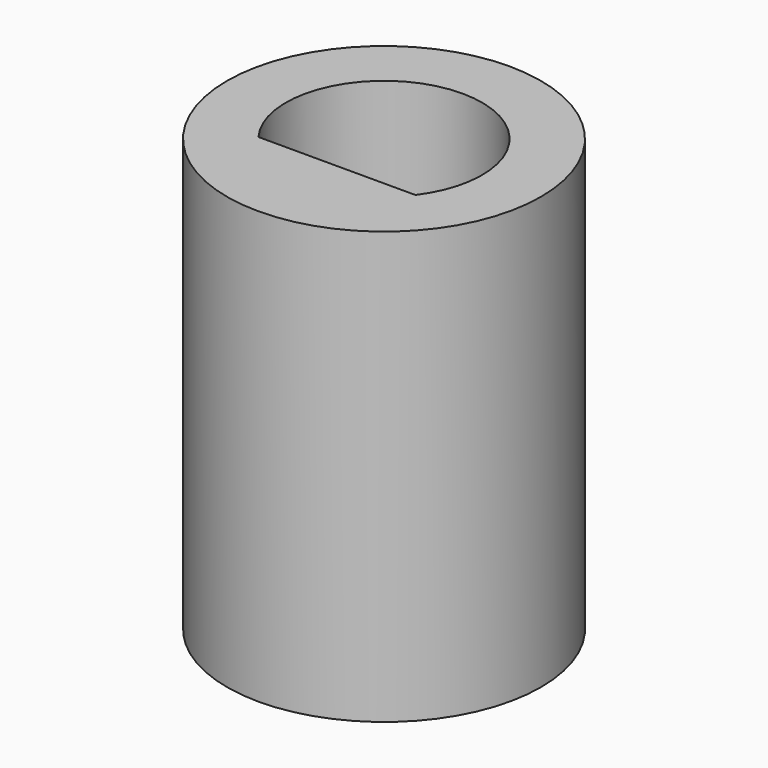
from build123d import *

# Parameters (mm, degrees)
F0_R     = 5.08
F1_DEPTH = 13.97


with BuildPart() as f1:
    # F0 (on Top) → F1 (new body)
    with BuildSketch(Plane.XY):
        with Locations((-0.660557, 8.367452)):
            Circle(F0_R)
        with BuildLine():
            ThreePointArc((-3.200557, 6.462452), (-0.660557, 11.542452), (1.879443, 6.462452))
            Line((1.879443, 6.462452), (-3.200557, 6.462452))
        make_face(mode=Mode.SUBTRACT)
    extrude(amount=F1_DEPTH)


solid = f1.part
